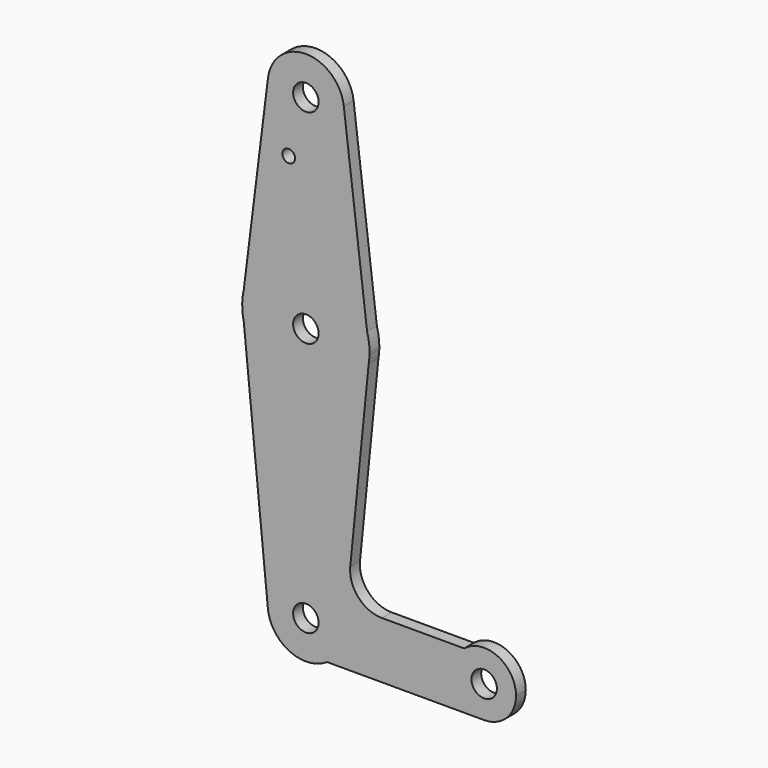
from build123d import *

# Parameters (mm, degrees)
F0_R     = 3.175
F0_R_2   = 1.5875
F1_DEPTH = 3.048


with BuildPart() as f1:
    # F0 (on Front) → F1 (new body)
    with BuildSketch(Plane.XZ):
        with BuildLine():
            ThreePointArc((-48.7500399264, 57.094476982), (-39.8876640254, 46.4107556518), (-29.7730389297, 55.9174883842))
            ThreePointArc((-29.7730389297, 55.9174883842), (-29.7905959401, 56.4955478967), (-29.8432022473, 57.0714763862))
            ThreePointArc((-29.8432022473, 57.0714763862), (-39.2864515603, 65.4424813361), (-48.7500399264, 57.094476982))
        make_face()
        with Locations((-39.2980389297, 55.9174883842)):
            Circle(F0_R, mode=Mode.SUBTRACT)
        with BuildLine():
            ThreePointArc((-29.8432022473, 57.0714763862), (-29.7905959401, 56.4955478967), (-29.7730389297, 55.9174883842))
            ThreePointArc((-29.7730389297, 55.9174883842), (-39.8876640254, 46.4107556518), (-48.7500399264, 57.094476982))
            Line((-48.7500399264, 57.094476982), (-54.7916480551, 8.5763467609))
            ThreePointArc((-54.7916480551, 8.5763467609), (-39.7652419736, 20.9856119758), (-24.0347698109, 9.4819174197))
            Line((-24.0347698109, 9.4819174197), (-29.8432022473, 57.0714763862))
        make_face()
        with Locations((-43.5730554163, 41.6426883842)):
            Circle(F0_R_2, mode=Mode.SUBTRACT)
        with BuildLine():
            Line((-23.433101737, 4.5523398454), (-24.0347698109, 9.4819174197))
            ThreePointArc((-24.0347698109, 9.4819174197), (-39.7652419736, 20.9856119758), (-54.7916480551, 8.5763467609))
            Line((-54.7916480551, 8.5763467609), (-55.1667595935, 5.5639517033))
            Line((-55.1667595935, 5.5639517033), (-54.7748045521, 1.5840267855))
            ThreePointArc((-54.7748045521, 1.5840267855), (-38.8158057104, -10.7501855512), (-23.6352637361, 2.5303860992))
            Line((-23.6352637361, 2.5303860992), (-23.433101737, 4.5523398454))
        make_face()
        with Locations((-39.2980389297, 5.1174883842)):
            Circle(F0_R, mode=Mode.SUBTRACT)
        with BuildLine():
            ThreePointArc((-23.4230389297, 5.1174883842), (-23.5767154762, 7.3210341335), (-24.0347698109, 9.4819174197))
            Line((-24.0347698109, 9.4819174197), (-23.433101737, 4.5523398454))
            ThreePointArc((-23.433101737, 4.5523398454), (-23.4255548309, 4.8348693248), (-23.4230389297, 5.1174883842))
        make_face()
        with BuildLine():
            Line((-55.1667595935, 5.5639517033), (-54.7916480551, 8.5763467609))
            ThreePointArc((-54.7916480551, 8.5763467609), (-55.0513739241, 7.0791360471), (-55.1667595935, 5.5639517033))
        make_face()
        with BuildLine():
            ThreePointArc((-23.6352637361, 2.5303860992), (-23.5017977212, 3.5381250053), (-23.433101737, 4.5523398454))
            Line((-23.433101737, 4.5523398454), (-23.6352637361, 2.5303860992))
        make_face()
        with BuildLine():
            Line((-54.7748045521, 1.5840267855), (-55.1667595935, 5.5639517033))
            ThreePointArc((-55.1667595935, 5.5639517033), (-55.0966093782, 3.5615973909), (-54.7748045521, 1.5840267855))
        make_face()
        with BuildLine():
            Line((-28.2338697744, -43.4632662642), (-23.6352637361, 2.5303860992))
            ThreePointArc((-23.6352637361, 2.5303860992), (-38.8158057104, -10.7501855512), (-54.7748045521, 1.5840267855))
            Line((-54.7748045521, 1.5840267855), (-48.7771811988, -59.3160462118))
            ThreePointArc((-48.7771811988, -59.3160462118), (-39.7653690522, -48.8689829562), (-29.7730389297, -58.3825116158))
            ThreePointArc((-29.7730389297, -58.3825116158), (-30.9053009627, -62.8866846161), (-34.032897075, -66.3200116158))
            Line((-34.032897075, -66.3200116158), (5.1519610703, -66.3200116158))
            ThreePointArc((5.1519610703, -66.3200116158), (-2.3327759445, -61.024976009), (0.1684899384, -52.2044114444))
            Line((0.1684899384, -52.2044114444), (-20.3231121772, -52.2044114444))
            ThreePointArc((-20.3231121772, -52.2044114444), (-26.2177645168, -49.5888861143), (-28.2338697744, -43.4632662642))
        make_face()
        with BuildLine():
            ThreePointArc((-29.7730389297, -58.3825116158), (-39.7653690522, -48.8689829562), (-48.7771811988, -59.3160462118))
            ThreePointArc((-48.7771811988, -59.3160462118), (-43.3850100231, -66.9861324978), (-34.032897075, -66.3200116158))
            ThreePointArc((-34.032897075, -66.3200116158), (-30.9053009627, -62.8866846161), (-29.7730389297, -58.3825116158))
        make_face()
        with Locations((-39.2980389297, -58.3825116158)):
            Circle(F0_R, mode=Mode.SUBTRACT)
        with BuildLine():
            ThreePointArc((13.0894610703, -58.3825116158), (8.5759648773, -51.2214988257), (0.1684899384, -52.2044114444))
            ThreePointArc((0.1684899384, -52.2044114444), (-2.3327759445, -61.024976009), (5.1519610703, -66.3200116158))
            ThreePointArc((5.1519610703, -66.3200116158), (10.764621146, -63.9951716914), (13.0894610703, -58.3825116158))
        make_face()
        with Locations((5.1519610703, -58.3825116158)):
            Circle(F0_R, mode=Mode.SUBTRACT)
    extrude(amount=F1_DEPTH)


solid = f1.part
